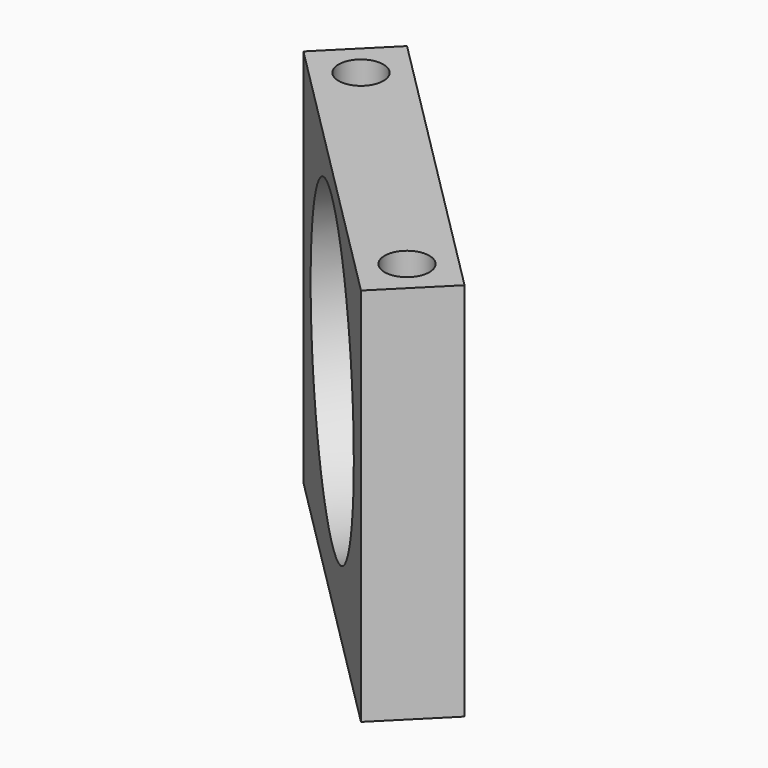
from build123d import *

# Parameters (mm, degrees)
SKETCH082_W             = 30
SKETCH082_H             = 6
PAD035_DEPTH            = 28
SKETCH083_R             = 11.25
POCKET043_DEPTH         = 3
SKETCH084_R             = 1.2
POCKET044_DEPTH         = 3
SKETCH085_R             = 1.65
POCKET045_DEPTH         = 7
SKETCH086_R             = 1.65
POCKET046_DEPTH         = 8
BODY025_PLACEMENT_ANGLE = 135


with BuildPart() as part:
    # Sketch082 → Pad035 (new body)
    with BuildSketch(Plane.XY):
        Rectangle(SKETCH082_W, SKETCH082_H)
    extrude(amount=PAD035_DEPTH)

    # Sketch083 (on Face4 of Pad035) → Pocket043 (cut)
    with BuildSketch(Plane(origin=(0, 3, 0), x_dir=(-1, 0, 0), z_dir=(0, 1, 0))):
        with Locations((0, 15)):
            Circle(SKETCH083_R)
    extrude(amount=-POCKET043_DEPTH, mode=Mode.SUBTRACT)

    # Sketch084 (on Face8 of Pocket043) → Pocket044 (cut)
    with BuildSketch(Plane(origin=(0, 0, 0), x_dir=(-1, 0, 0), z_dir=(0, 1, 0))):
        with Locations((6.363961, 8.636039)):
            Circle(SKETCH084_R)
        with Locations((6.363961, 21.363961)):
            Circle(SKETCH084_R)
        with Locations((-6.363961, 21.363961)):
            Circle(SKETCH084_R)
        with Locations((-6.363961, 8.636039)):
            Circle(SKETCH084_R)
        with BuildLine():
            Line((-6.25, 18.674235), (-6.25, 11.325765))
            ThreePointArc((-6.25, 11.325765), (0, 7.75), (6.25, 11.325765))
            Line((6.25, 18.674235), (6.25, 11.325765))
            ThreePointArc((6.25, 18.674235), (0, 22.25), (-6.25, 18.674235))
        make_face()
    extrude(amount=-POCKET044_DEPTH, mode=Mode.SUBTRACT)

    # Sketch085 (on Face5 of Pocket044) → Pocket045 (cut)
    with BuildSketch(Plane.XY.offset(28)):
        with Locations((-12, 0)):
            Circle(SKETCH085_R)
        with Locations((12, 0)):
            Circle(SKETCH085_R)
    extrude(amount=-POCKET045_DEPTH, mode=Mode.SUBTRACT)

    # Sketch086 (on Face4 of Pocket045) → Pocket046 (cut)
    with BuildSketch(Plane(origin=(0, 0, 0), x_dir=(1, 0, 0), z_dir=(0, 0, -1))):
        with Locations((-12, 0)):
            Circle(SKETCH086_R)
        with Locations((12, 0)):
            Circle(SKETCH086_R)
    extrude(amount=-POCKET046_DEPTH, mode=Mode.SUBTRACT)


with BuildPart() as part_1:
    # Body025 placement: moved
    add(part.part.moved(Location((58.5, 58.5, 2))).rotate(Axis((58.5, 58.5, 2), (0, 0, 1)), BODY025_PLACEMENT_ANGLE))


solid = part_1.part
